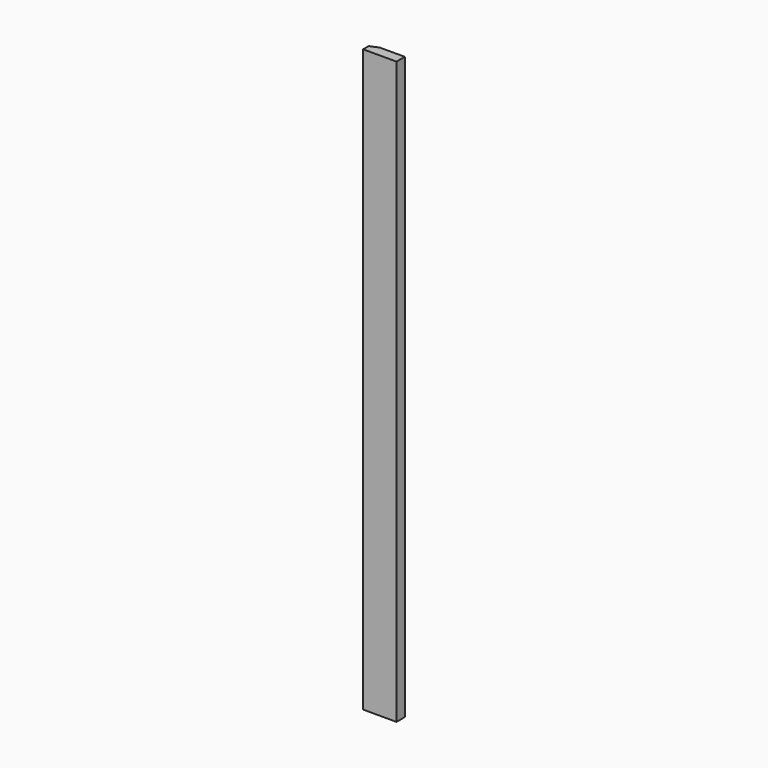
from build123d import *

# Parameters (mm, degrees)
F0_W     = 50.8
F0_H     = 885.825
F1_DEPTH = 15.875
F2_SIZE2 = 5.2605122421
F2_SIZE  = 12.7


with BuildPart() as f1:
    # F0 (on Front) → F1 (new body)
    with BuildSketch(Plane.XZ):
        with Locations((25.4, 442.9125)):
            Rectangle(F0_W, F0_H)
    extrude(amount=-F1_DEPTH)

    # F2
    f2_edges = [f1.edges().sort_by_distance(p)[0] for p in [
        (0, 15.875, 442.9125),
    ]]
    f2_side = f1.faces().sort_by_distance((25.4, 15.875, 442.9125))[0]
    chamfer(f2_edges, length=F2_SIZE, length2=F2_SIZE2, reference=f2_side)


solid = f1.part
